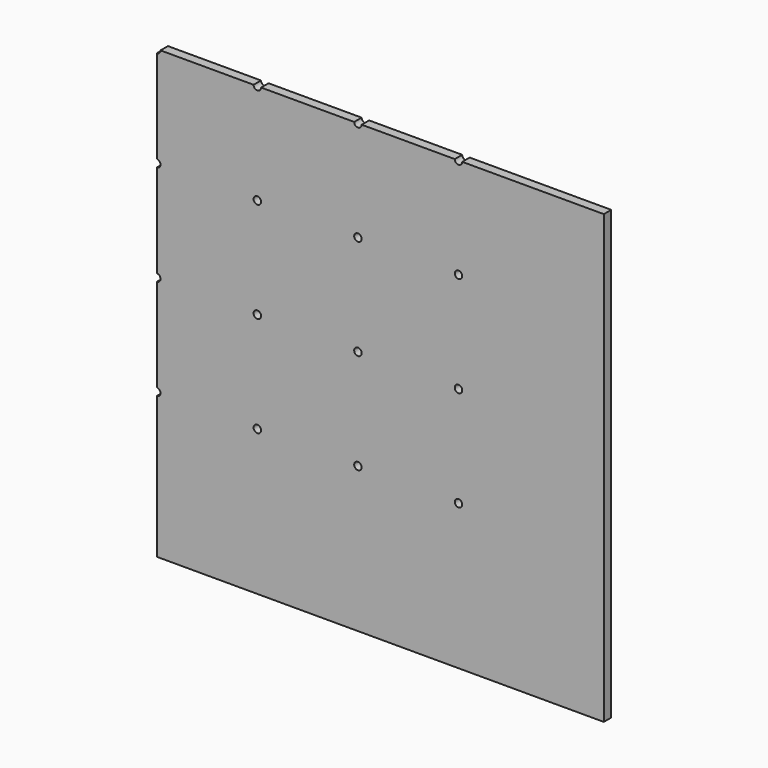
from build123d import *

# Parameters (mm, degrees)
F1_DEPTH = 6.35
F2_D     = 5.1054


with BuildPart() as f1:
    # F0 (on Front) → F1 (new body)
    with BuildSketch(Plane.XZ):
        Polygon((-83.82, 152.4), (-152.4, 152.4), (-152.4, 83.82), (-152.4, -152.4), (152.4, -152.4), (152.4, 152.4), (53.34, 152.4), (-15.24, 152.4), align=None)
    extrude(amount=F1_DEPTH)

    # F2 (through all)
    with Locations(Plane(origin=(0, 0, 0), x_dir=(1, 0, 0), z_dir=(0, 1, 0))):
        with Locations((-83.82, -83.82), (-15.24, -83.82), (53.34, -83.82), (-83.82, -15.24), (-83.82, 53.34), (-15.24, -15.24), (53.34, -15.24), (53.34, 53.34), (-15.24, 53.34), (-83.82, -152.4), (-15.24, -152.4), (53.34, -152.4), (-152.4, -152.4), (-152.4, -83.82), (-152.4, -15.24), (-152.4, 53.34)):
            Hole(F2_D / 2)


solid = f1.part
